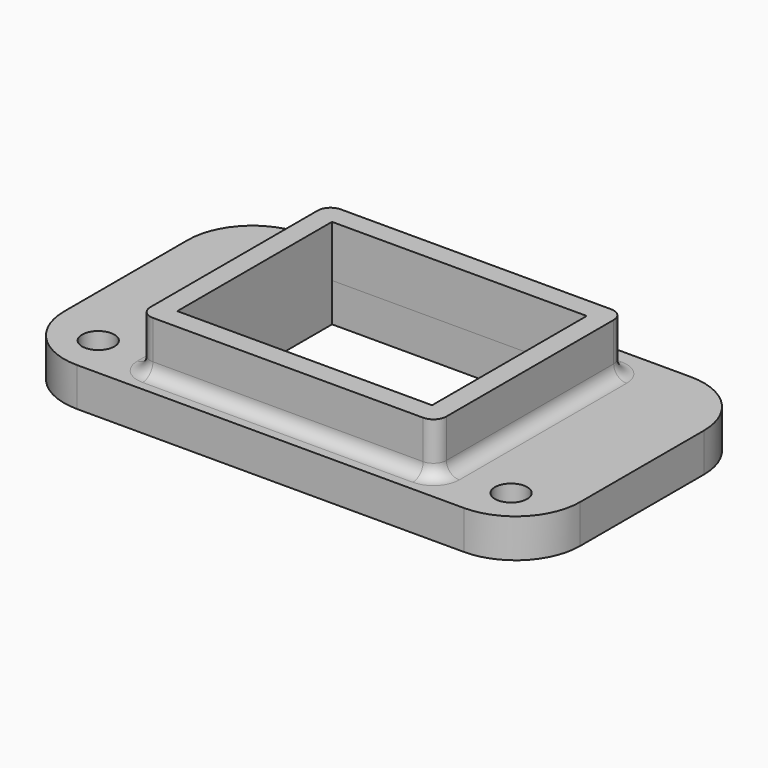
from build123d import *

# Parameters (mm, degrees)
F0_R     = 1.25
F0_W     = 19.75
F0_H     = 15
F1_DEPTH = 3
F2_W     = 22.95
F2_H     = 18.211835
F2_W_2   = 19.75
F2_H_2   = 14.988165
F3_DEPTH = 4
F4_R     = 5
F5_R     = 1


with BuildPart() as f1:
    # F0 (on Top) → F1 (new body)
    with BuildSketch(Plane.XY):
        Polygon((-20, -3.313276), (0, -3.313276), (20, -3.313276), (20, 18.686724), (0, 18.686724), (-20, 18.686724), align=None)
        with Locations((-16, 0)):
            Circle(F0_R, mode=Mode.SUBTRACT)
        with Locations((16, 0)):
            Circle(F0_R, mode=Mode.SUBTRACT)
        with Locations((0, 7.5)):
            Rectangle(F0_W, F0_H, mode=Mode.SUBTRACT)
    extrude(amount=F1_DEPTH)

    # F2 (on face) → F3 (join)
    with BuildSketch(Plane.XY.offset(3)):
        with Locations((0, 7.494082)):
            Rectangle(F2_W, F2_H)
        with Locations((0, 7.494082)):
            Rectangle(F2_W_2, F2_H_2, mode=Mode.SUBTRACT)
    extrude(amount=F3_DEPTH)

    # F4
    f4_edges = [f1.edges().sort_by_distance(p)[0] for p in [
        (-20, 18.686724, 1.5),
        (20, 18.686724, 1.5),
        (-20, -3.313276, 1.5),
        (20, -3.313276, 1.5),
    ]]
    fillet(f4_edges, radius=F4_R)

    # F5
    f5_edges = [f1.edges().sort_by_distance(p)[0] for p in [
        (0, 16.6, 3),
        (-11.475, 7.494082, 3),
        (0, -1.611835, 3),
        (11.475, 7.494082, 3),
        (11.475, -1.611835, 5),
        (-11.475, -1.611835, 5),
        (11.475, 16.6, 5),
        (-11.475, 16.6, 5),
    ]]
    fillet(f5_edges, radius=F5_R)


solid = f1.part
